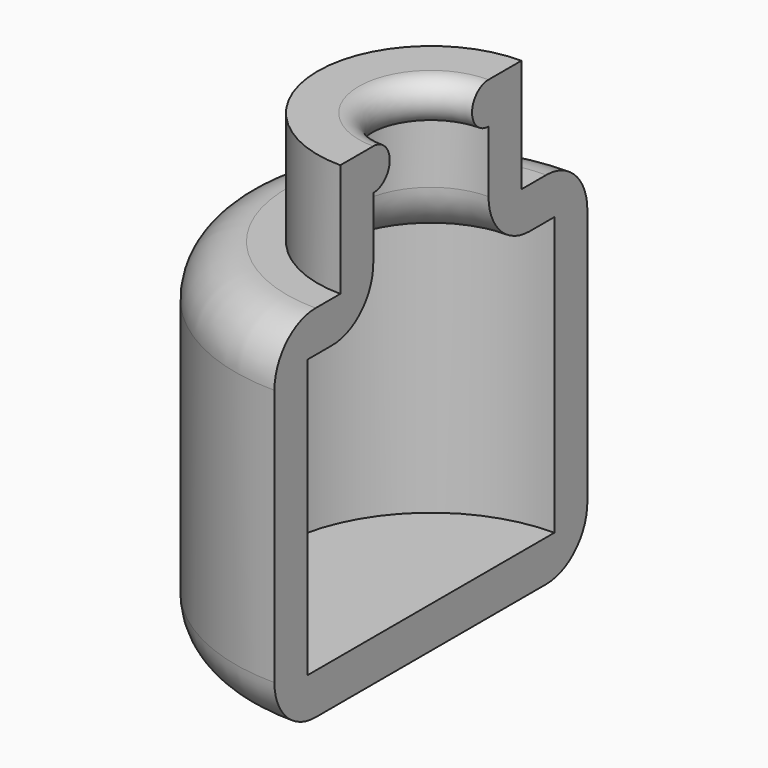
from build123d import *

# Parameters (mm, degrees)
F1_ANGLE = 180


with BuildPart() as f1:
    # F0 (on Front) → F1 (revolve, symmetric)
    with BuildSketch(Plane.XZ) as f1_sk:
        with BuildLine():
            ThreePointArc((-15, 93.658174), (-32.67767, 86.335844), (-40, 68.658174))
            Line((-40, 68.658174), (-40, -56.341826))
            ThreePointArc((-40, -56.341826), (-32.67767, -74.019496), (-15, -81.341826))
            Line((-15, -81.341826), (55, -81.341826))
            Line((55, -81.341826), (55, -61.341826))
            Line((55, -61.341826), (-20, -61.341826))
            Line((-20, -61.341826), (-20, 73.658174))
            Line((-20, 73.658174), (-5, 73.658174))
            ThreePointArc((-5, 73.658174), (12.67767, 80.980504), (20, 98.658174))
            Line((20, 98.658174), (20, 128.658174))
            ThreePointArc((20, 128.658174), (30, 138.658174), (20, 148.658174))
            Line((20, 148.658174), (0, 148.658174))
            Line((0, 148.658174), (0, 93.658174))
            Line((0, 93.658174), (-15, 93.658174))
        make_face()
    revolve(axis=Axis((55, 0, -71.341826), (0, 0, 1)), revolution_arc=F1_ANGLE / 2)
    revolve(f1_sk.sketch, axis=Axis((55, 0, -71.341826), (0, 0, -1)), revolution_arc=F1_ANGLE / 2)


solid = f1.part
